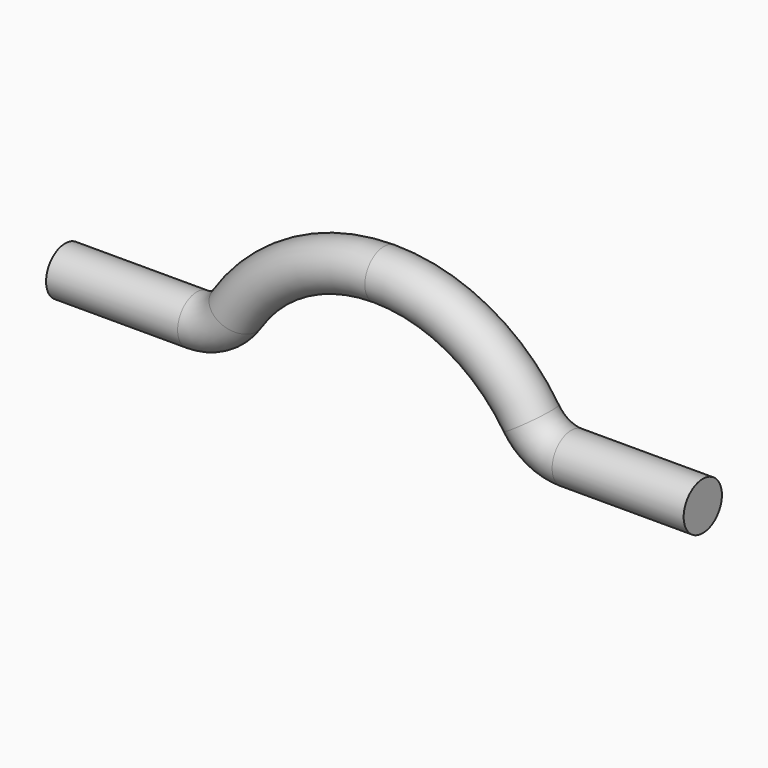
from build123d import *

# Parameters (mm, degrees)
F1_R = 4.5


with BuildPart() as f2:
    # F2: sweep along a path in F0
    with BuildLine(Plane.XZ) as f2_path:
        Line((0, 0), (24.75798, 0))
        ThreePointArc((24.75798, 0), (29.028977, 1.077969), (32.276864, 4.053649))
        ThreePointArc((32.276864, 4.053649), (44.252257, 15.025384), (60, 19))
        ThreePointArc((60, 19), (75.747743, 15.025384), (87.723136, 4.053649))
        ThreePointArc((87.723136, 4.053649), (90.971023, 1.077969), (95.24202, 0))
        Line((95.24202, 0), (120, 0))
    # F1 (on Right) → F2 (sweep)
    with BuildSketch(Plane.YZ):
        Circle(F1_R)
    sweep(path=f2_path.line)


solid = f2.part
